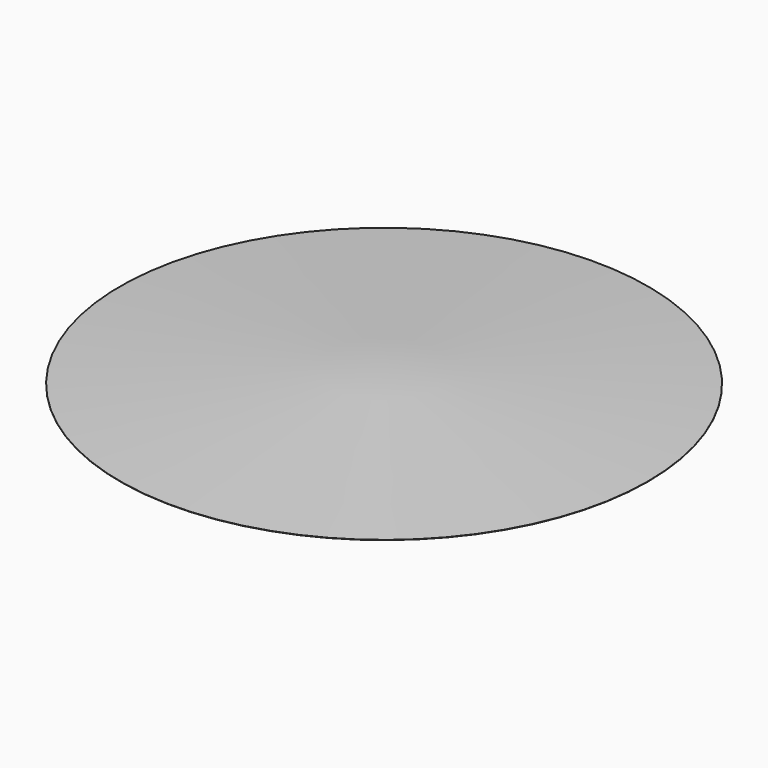
from build123d import *


with BuildPart() as f1:
    # F0 (on Front) → F1 (revolve)
    with BuildSketch(Plane.XZ):
        Polygon((0, 309.5282087849), (4952.8452676462, 0), (5029.2, 0), (0, 314.3), align=None)
        Polygon((5029.2, 0), (4952.8452676462, 0), (5032.5983678996, -4.9841723156), (5080.0038779344, -7.9467810414), (5080.0038779344, -3.1749898264), align=None)
    revolve(axis=Axis((0, 0, 157.15), (0, 0, -1)))


solid = f1.part
